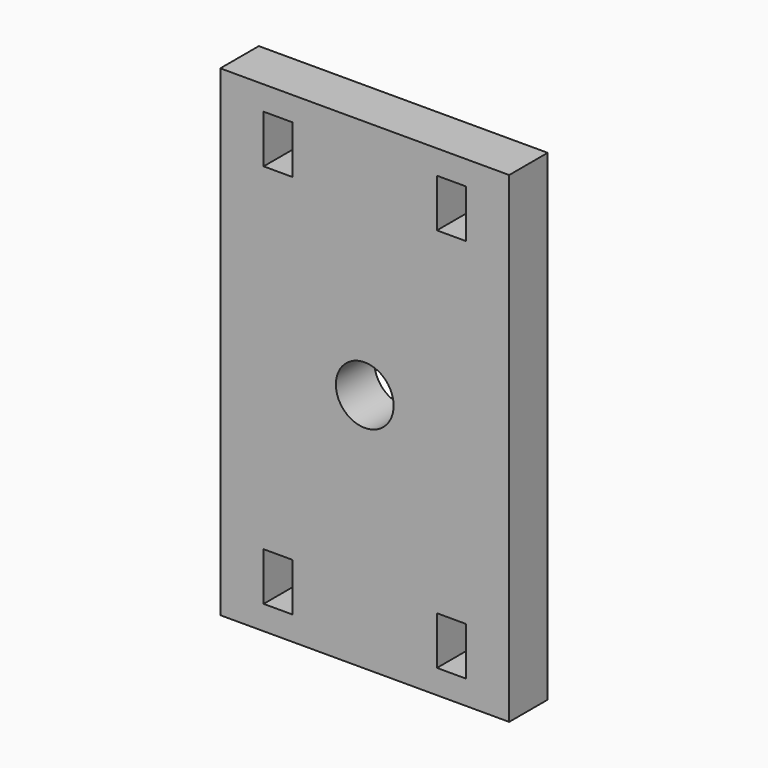
from build123d import *

# Parameters (mm, degrees)
SKETCH012_W   = 30
SKETCH012_H   = 50
SKETCH012_R   = 3
SKETCH012_W_2 = 3
SKETCH012_H_2 = 5
PAD012_DEPTH  = 5


with BuildPart() as part:
    # Sketch012 → Pad012 (new body)
    with BuildSketch(Plane(origin=(0, -5, 100), x_dir=(1, 0, 0), z_dir=(0, -1, 0))):
        Rectangle(SKETCH012_W, SKETCH012_H)
        Circle(SKETCH012_R, mode=Mode.SUBTRACT)
        with Locations((-9, 20)):
            Rectangle(SKETCH012_W_2, SKETCH012_H_2, mode=Mode.SUBTRACT)
        with Locations((9, 20)):
            Rectangle(SKETCH012_W_2, SKETCH012_H_2, mode=Mode.SUBTRACT)
        with Locations((-9, -20)):
            Rectangle(SKETCH012_W_2, SKETCH012_H_2, mode=Mode.SUBTRACT)
        with Locations((9, -20)):
            Rectangle(SKETCH012_W_2, SKETCH012_H_2, mode=Mode.SUBTRACT)
    extrude(amount=PAD012_DEPTH)


solid = part.part
